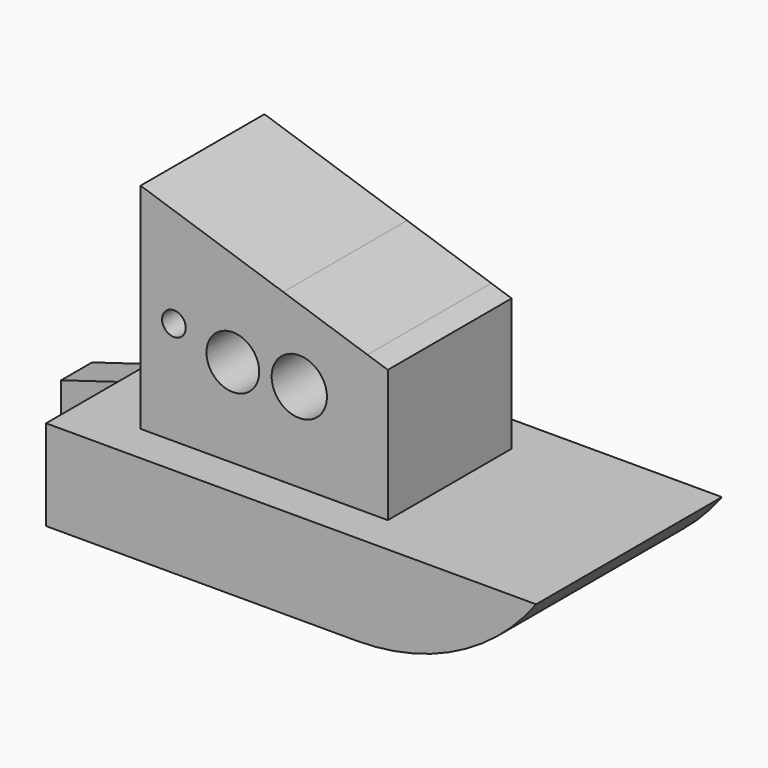
from build123d import *

# Parameters (mm, degrees)
F1_DEPTH = 38.1
F2_DEPTH = 6.35
F0_W     = 6.3290558755
F0_H     = 12.5651992857
F3_DEPTH = 3.175
F0_R     = 8.6525424745
F0_R_2   = 9.0711492587
F0_W_2   = 5.1460258761
F0_H_2   = 10.5661942953
F0_W_3   = 24.5602354407
F0_W_4   = 26.5593226068
F0_W_5   = 6.9090700396
F0_W_6   = 14.06177961
F0_W_7   = 3.8753339521
F0_R_3   = 3.8842075561
F4_DEPTH = 25.4


with BuildPart() as f1:
    # F0 (on Front) → F1 (new body, symmetric)
    with BuildSketch(Plane.XZ):
        with BuildLine():
            Line((-51.1175096035, -16.873287037), (-51.1175096035, -22.5602444261))
            Line((-51.1175096035, -22.5602444261), (50.8410625258, -22.5602444261))
            ThreePointArc((50.8410625258, -22.5602444261), (83.7910011304, -14.7143733495), (109.6690327028, 7.1393135004))
            Line((109.6690327028, 7.1393135004), (93.1019932032, 7.1393135004))
            Line((93.1019932032, 7.1393135004), (71.9687715173, 7.1393135004))
            Line((71.9687715173, 7.1393135004), (50.8410625258, 7.1393135004))
            Line((50.8410625258, 7.1393135004), (45.6950366497, 7.1393135004))
            Line((45.6950366497, 7.1393135004), (21.134801209, 7.1393135004))
            Line((21.134801209, 7.1393135004), (-5.4245213978, 7.1393135004))
            Line((-5.4245213978, 7.1393135004), (-12.3335914374, 7.1393135004))
            Line((-12.3335914374, 7.1393135004), (-26.3953710475, 7.1393135004))
            Line((-26.3953710475, 7.1393135004), (-30.2707049996, 7.1393135004))
            Line((-30.2707049996, 7.1393135004), (-51.1175096035, 7.1393135004))
            Line((-51.1175096035, 7.1393135004), (-51.1175096035, 6.1453658742))
            Line((-51.1175096035, 6.1453658742), (-51.1175096035, -16.873287037))
        make_face()
    extrude(amount=F1_DEPTH, both=True)

    # F0 (on Front) → F2 (join, symmetric)
    with BuildSketch(Plane.XZ):
        Polygon((-55.0226159394, -16.873287037), (-51.1175096035, -16.873287037), (-51.1175096035, 6.1453658742), (-71.5858340263, 0), (-71.5858340263, -16.873287037), (-61.3516718149, -16.873287037), align=None)
    extrude(amount=F2_DEPTH, both=True)

    # F0 (on Front) → F3 (join, symmetric)
    with BuildSketch(Plane.XZ):
        with Locations((-58.1871438771, -23.1558866799)):
            Rectangle(F0_W, F0_H)
    extrude(amount=F3_DEPTH, both=True)

    # F0 (on Front) → F4 (join, symmetric)
    with BuildSketch(Plane.XZ):
        with BuildLine():
            Line((-30.2707049996, 50.5518508265), (-30.2707049996, 17.7055077956))
            Line((-30.2707049996, 17.7055077956), (-26.3953710475, 17.7055077956))
            Line((-26.3953710475, 17.7055077956), (-26.3953710475, 42.5316623055))
            add(Edge.make_bspline(
                [(-26.3953710475, 42.5316623055), (-25.6086271256, 50.5518508265), (-13.6145753786, 50.5218580365), (-12.3335914374, 42.5316623055)],
                knots=[0, 0, 0, 0, 14.06177961, 14.06177961, 14.06177961, 14.06177961], degree=3))
            Line((-12.3335914374, 42.5316623055), (-12.3335914374, 17.7055077956))
            Line((-12.3335914374, 17.7055077956), (-5.4245213978, 17.7055077956))
            Line((-5.4245213978, 17.7055077956), (21.134801209, 17.7055077956))
            Line((21.134801209, 17.7055077956), (45.6950366497, 17.7055077956))
            Line((45.6950366497, 17.7055077956), (50.8410625258, 17.7055077956))
            Line((50.8410625258, 17.7055077956), (50.8410625258, 50.5518508265))
            Line((50.8410625258, 50.5518508265), (-30.2707049996, 50.5518508265))
        make_face()
        with Locations((0, 36.2432263792)):
            Circle(F0_R, mode=Mode.SUBTRACT)
        with Locations((21.7964369804, 36.2432301044)):
            Circle(F0_R_2, mode=Mode.SUBTRACT)
        with Locations((48.2680495878, 12.422410648)):
            Rectangle(F0_W_2, F0_H_2)
        with Locations((33.4149189293, 12.422410648)):
            Rectangle(F0_W_3, F0_H_2)
        with Locations((7.8551399056, 12.422410648)):
            Rectangle(F0_W_4, F0_H_2)
        with Locations((-8.8790564176, 12.422410648)):
            Rectangle(F0_W_5, F0_H_2)
        with Locations((-19.3644812425, 12.422410648)):
            Rectangle(F0_W_6, F0_H_2)
        with Locations((-28.3330380235, 12.422410648)):
            Rectangle(F0_W_7, F0_H_2)
        with BuildLine():
            Line((-26.3953710475, 42.5316623055), (-26.3953710475, 17.7055077956))
            Line((-26.3953710475, 17.7055077956), (-12.3335914374, 17.7055077956))
            Line((-12.3335914374, 17.7055077956), (-12.3335914374, 42.5316623055))
            add(Edge.make_bspline(
                [(-26.3953710475, 42.5316623055), (-25.6086271256, 50.5518508265), (-13.6145753786, 50.5218580365), (-12.3335914374, 42.5316623055)],
                knots=[0, 0, 0, 0, 14.06177961, 14.06177961, 14.06177961, 14.06177961], degree=3))
        make_face()
        with Locations((-19.3260274827, 41.0979650915)):
            Circle(F0_R_3, mode=Mode.SUBTRACT)
        Polygon((-30.2707049996, 77.3901939392), (-30.2707049996, 50.5518508265), (50.8410625258, 50.5518508265), (44.1557221366, 52.7639029697), (16.5465753325, 61.8992451966), align=None)
    extrude(amount=F4_DEPTH, both=True)


solid = f1.part
